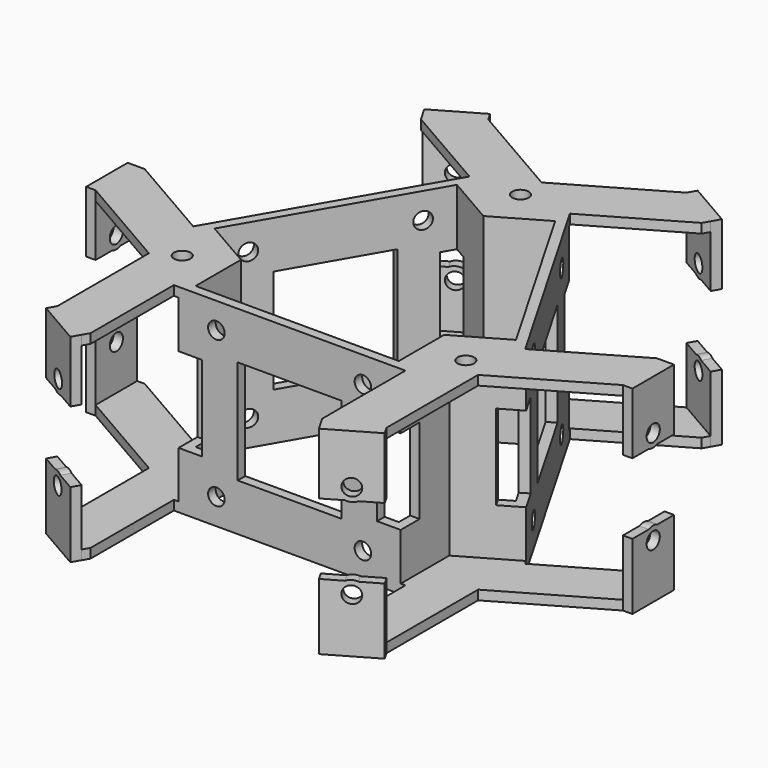
from build123d import *

# Parameters (mm, degrees)
PAD_DEPTH       = 42
SKETCH001_R     = 1.75
SKETCH001_W     = 22
SKETCH001_H     = 22
SKETCH001_W_2   = 5
SKETCH001_H_2   = 18
POCKET_DEPTH    = 5
SKETCH002_R     = 1.75
SKETCH002_W     = 22
SKETCH002_H     = 22
SKETCH002_W_2   = 5
SKETCH002_H_2   = 18
POCKET001_DEPTH = 5
SKETCH003_R     = 1.75
SKETCH003_W     = 22
SKETCH003_H     = 22
SKETCH003_W_2   = 5
SKETCH003_H_2   = 18
POCKET002_DEPTH = 5
SKETCH004_R     = 1.75
PAD001_DEPTH    = 2
PAD002_DEPTH    = 2
SKETCH006_R     = 1.75
PAD003_DEPTH    = 2
SKETCH007_R     = 1.75
PAD004_DEPTH    = 2
SKETCH008_R     = 1.75
PAD005_DEPTH    = 2
SKETCH009_R     = 1.75
PAD006_DEPTH    = 2
SKETCH010_R     = 1.75
PAD007_DEPTH    = 2
SKETCH011_R     = 1.75
PAD008_DEPTH    = 2


with BuildPart() as part:
    # Sketch → Pad (new body)
    with BuildSketch(Plane.XY):
        Polygon((0, 27.1354626519), (-11.124355653, 33.5581123827), (-34.624355653, -7.1450815951), (-23.5, -13.567731326), (-23.5, -26.4130307876), (23.5, -26.4130307876), (23.5, -13.567731326), (34.624355653, -7.1450815951), (11.124355653, 33.5581123827), align=None)
        Polygon((0, 24.8260615752), (-10.3923048454, 30.8260615752), (-31.8923048454, -6.4130307876), (-21.5, -12.4130307876), (-21.5, -24.4130307876), (21.5, -24.4130307876), (21.5, -12.4130307876), (31.8923048454, -6.4130307876), (10.3923048454, 30.8260615752), align=None, mode=Mode.SUBTRACT)
    extrude(amount=PAD_DEPTH)

    # Sketch001 (on Face5 of Pad) → Pocket (cut)
    with BuildSketch(Plane.XZ.offset(26.4130307876)):
        with Locations((-15.5, 5.5)):
            Circle(SKETCH001_R)
        with Locations((-15.5, 36.5)):
            Circle(SKETCH001_R)
        with Locations((15.5, 36.5)):
            Circle(SKETCH001_R)
        with Locations((15.5, 5.5)):
            Circle(SKETCH001_R)
        with Locations((0, 21)):
            Rectangle(SKETCH001_W, SKETCH001_H)
        with Locations((-21, 21)):
            Rectangle(SKETCH001_W_2, SKETCH001_H_2)
        with Locations((21, 21)):
            Rectangle(SKETCH001_W_2, SKETCH001_H_2)
    extrude(amount=-POCKET_DEPTH, mode=Mode.SUBTRACT)

    # Sketch002 (on Face6 of Pocket) → Pocket001 (cut)
    with BuildSketch(Plane(origin=(22.874355653, 13.2065153938, 0), x_dir=(-0.5, 0.8660254038, 0), z_dir=(0.8660254038, 0.5, 0))):
        with Locations((15.5, 5.5)):
            Circle(SKETCH002_R)
        with Locations((15.5, 36.5)):
            Circle(SKETCH002_R)
        with Locations((-15.5, 5.5)):
            Circle(SKETCH002_R)
        with Locations((-15.5, 36.5)):
            Circle(SKETCH002_R)
        with Locations((0, 21)):
            Rectangle(SKETCH002_W, SKETCH002_H)
        with Locations((-21, 21)):
            Rectangle(SKETCH002_W_2, SKETCH002_H_2)
        with Locations((21, 21)):
            Rectangle(SKETCH002_W_2, SKETCH002_H_2)
    extrude(amount=-POCKET001_DEPTH, mode=Mode.SUBTRACT)

    # Sketch003 (on Face3 of Pocket001) → Pocket002 (cut)
    with BuildSketch(Plane(origin=(-22.874355653, 13.2065153938, 0), x_dir=(-0.5, -0.8660254038, 0), z_dir=(-0.8660254038, 0.5, 0))):
        with Locations((-15.5, 36.5)):
            Circle(SKETCH003_R)
        with Locations((15.5, 36.5)):
            Circle(SKETCH003_R)
        with Locations((-15.5, 5.5)):
            Circle(SKETCH003_R)
        with Locations((15.5, 5.5)):
            Circle(SKETCH003_R)
        with Locations((0, 21)):
            Rectangle(SKETCH003_W, SKETCH003_H)
        with Locations((-21, 21)):
            Rectangle(SKETCH003_W_2, SKETCH003_H_2)
        with Locations((21, 21)):
            Rectangle(SKETCH003_W_2, SKETCH003_H_2)
    extrude(amount=-POCKET002_DEPTH, mode=Mode.SUBTRACT)

    # Sketch004 (on Face7 of Pocket002) → Pad001 (join)
    with BuildSketch(Plane.XY.offset(42)):
        Polygon((-23.5, -13.567731326), (-23.5, -26.4130307876), (-24.5, -26.4130307876), (-24.5, -48.4352447504), (-25.2999999836, -49.820885403), (-34.8262794855, -44.3208855074), (-34.8262794855, -20.1069617852), (-55.7961524227, -8), (-55.7961524227, 3), (-54.1961524227, 3), (-35.124355653, -8.0111069989), (-34.624355653, -7.1450815951), align=None)
        with Locations((-30, -17.3205080757)):
            Circle(SKETCH004_R, mode=Mode.SUBTRACT)
        Polygon((23.5, -13.567731326), (23.5, -26.4130307876), (24.5, -26.4130307876), (24.5, -48.4352448944), (25.3000000511, -49.82088552), (34.8262793054, -44.3208851956), (34.8262793054, -20.1069618891), (55.7961524227, -8), (55.7961524227, 3), (54.1961524227, 3), (35.124355653, -8.0111069989), (34.624355653, -7.1450815951), align=None)
        with Locations((30, -17.3205080757)):
            Circle(SKETCH004_R, mode=Mode.SUBTRACT)
        Polygon((0, 27.1354626519), (-11.124355653, 33.5581123827), (-10.624355653, 34.4241377865), (-29.6961572279, 45.4352475597), (-30.4961550236, 46.8208899364), (-20.9698660454, 52.3208734185), (0, 40.2139156123), (20.9698730433, 52.3208855393), (30.4961523994, 46.8208853911), (29.6961523796, 45.4352447605), (10.624355653, 34.4241377865), (11.124355653, 33.5581123827), align=None)
        with Locations((0, 34.6410161514)):
            Circle(SKETCH004_R, mode=Mode.SUBTRACT)
    extrude(amount=-PAD001_DEPTH)

    # Sketch005 (on Face2 of Pad001) → Pad002 (join)
    with BuildSketch(Plane(origin=(0, 0, 0), x_dir=(1, 0, 0), z_dir=(0, 0, -1))):
        Polygon((-24.5, 48.4352447504), (-25.2999999836, 49.820885403), (-34.8262794855, 44.3208855074), (-34.8262794855, 20.1069617852), (-55.7961524227, 8), (-55.7961524227, -3), (-54.1961524227, -3), (-35.124355653, 8.0111069989), (-34.624355653, 7.1450815951), (-23.5, 13.567731326), (-23.5, 26.4130307876), (-24.5, 26.4130307876), align=None)
        Polygon((24.5, 48.4352448944), (25.3000000511, 49.82088552), (34.8262793054, 44.3208851956), (34.8262793054, 20.1069618891), (55.7961524227, 8), (55.7961524227, -3), (54.1961524227, -3), (35.124355653, 8.0111069989), (34.624355653, 7.1450815951), (23.5, 13.567731326), (23.5, 26.4130307876), (24.5, 26.4130307876), align=None)
        Polygon((0, -27.1354626519), (11.124355653, -33.5581123827), (10.624355653, -34.4241377865), (29.6961523796, -45.4352447605), (30.4961523994, -46.8208853911), (20.9698730433, -52.3208855393), (0, -40.2139156123), (-20.9698660454, -52.3208734185), (-30.4961550236, -46.8208899364), (-29.6961572279, -45.4352475597), (-10.624355653, -34.4241377865), (-11.124355653, -33.5581123827), align=None)
    extrude(amount=-PAD002_DEPTH)

    # Sketch006 (on Face127 of Pad002) → Pad003 (join)
    with BuildSketch(Plane(origin=(-27.8980756819, -48.3208857372, 0), x_dir=(0.8660254093, -0.4999999905, 0), z_dir=(-0.4999999905, -0.8660254093, 0))):
        with BuildLine():
            Line((-8.0000006114, 42), (2.9999993886, 42))
            Line((2.9999993886, 42), (2.9999993886, 29))
            Line((2.9999993886, 29), (-1.3543566876, 29))
            ThreePointArc((-3.6456445351, 29), (-2.5000006114, 28.75), (-1.3543566876, 29))
            Line((-3.6456445351, 29), (-8.0000006114, 29))
            Line((-8.0000006114, 29), (-8.0000006114, 42))
        make_face()
        with Locations((-2.5000006114, 31.5)):
            Circle(SKETCH006_R, mode=Mode.SUBTRACT)
        with BuildLine():
            Line((-8.0000006114, 0), (2.9999993886, 0))
            Line((2.9999993886, 0), (2.9999993886, 14.0015625534))
            Line((2.9999993886, 14.0015625534), (-1.6043560763, 14.0015625534))
            ThreePointArc((-1.6043560763, 14.0015625534), (-2.75, 14.2515625534), (-3.8956439237, 14.0015625534))
            Line((-3.8956439237, 14.0015625534), (-8.0000006114, 14.0015625534))
            Line((-8.0000006114, 14.0015625534), (-8.0000006114, 0))
        make_face()
        with Locations((-2.75, 11.5015625534)):
            Circle(SKETCH006_R, mode=Mode.SUBTRACT)
    extrude(amount=PAD003_DEPTH)

    # Sketch007 (on Face137 of Pad003) → Pad004 (join)
    with BuildSketch(Plane(origin=(27.8980778567, -48.3208844816, 0), x_dir=(0.8660253868, 0.5000000295, 0), z_dir=(0.5000000295, -0.8660253868, 0))):
        with BuildLine():
            Line((-3.0000018998, 42), (7.9999981002, 42))
            Line((7.9999981002, 42), (7.9999981002, 29))
            Line((7.9999981002, 29), (3.6456420239, 29))
            ThreePointArc((1.3543541764, 29), (2.4999981002, 28.75), (3.6456420239, 29))
            Line((1.3543541764, 29), (-3.0000018998, 29))
            Line((-3.0000018998, 29), (-3.0000018998, 42))
        make_face()
        with Locations((2.4999981002, 31.5)):
            Circle(SKETCH007_R, mode=Mode.SUBTRACT)
        with BuildLine():
            Line((-3.0000018998, 0), (7.9999981002, 0))
            Line((7.9999981002, 0), (7.9999981002, 14))
            Line((7.9999981002, 14), (3.6456420239, 14))
            ThreePointArc((3.6456420239, 14), (2.4999981002, 14.25), (1.3543541764, 14))
            Line((1.3543541764, 14), (-3.0000018998, 14))
            Line((-3.0000018998, 14), (-3.0000018998, 0))
        make_face()
        with Locations((2.4999981002, 11.5)):
            Circle(SKETCH007_R, mode=Mode.SUBTRACT)
    extrude(amount=PAD004_DEPTH)

    # Sketch008 (on Face140 of Pad004) → Pad005 (join)
    with BuildSketch(Plane.YZ.offset(55.7961524227)):
        with BuildLine():
            Line((-8, 42), (3, 42))
            Line((3, 42), (3, 29))
            Line((3, 29), (-1.3543560763, 29))
            ThreePointArc((-3.6456439237, 29), (-2.5, 28.75), (-1.3543560763, 29))
            Line((-3.6456439237, 29), (-8, 29))
            Line((-8, 29), (-8, 42))
        make_face()
        with Locations((-2.5, 31.5)):
            Circle(SKETCH008_R, mode=Mode.SUBTRACT)
        with BuildLine():
            Line((-8, 0), (3, 0))
            Line((3, 0), (3, 14))
            Line((3, 14), (-1.3543560763, 14))
            ThreePointArc((-1.3543560763, 14), (-2.5, 14.25), (-3.6456439237, 14))
            Line((-3.6456439237, 14), (-8, 14))
            Line((-8, 14), (-8, 0))
        make_face()
        with Locations((-2.5, 11.5)):
            Circle(SKETCH008_R, mode=Mode.SUBTRACT)
    extrude(amount=PAD005_DEPTH)

    # Sketch009 (on Face44 of Pad005) → Pad006 (join)
    with BuildSketch(Plane(origin=(27.8980769631, 48.3208849975, 0), x_dir=(-0.866025396, 0.5000000135, 0), z_dir=(0.5000000135, 0.866025396, 0))):
        with BuildLine():
            Line((-2.999999132, 42), (8.000000868, 42))
            Line((8.000000868, 42), (8.000000868, 29))
            Line((8.000000868, 29), (3.6456447917, 29))
            ThreePointArc((1.3543569443, 29), (2.500000868, 28.75), (3.6456447917, 29))
            Line((1.3543569443, 29), (-2.999999132, 29))
            Line((-2.999999132, 29), (-2.999999132, 42))
        make_face()
        with Locations((2.500000868, 31.5)):
            Circle(SKETCH009_R, mode=Mode.SUBTRACT)
        with BuildLine():
            Line((-2.999999132, 0), (8.000000868, 0))
            Line((8.000000868, 0), (8.000000868, 14))
            Line((8.000000868, 14), (3.6456447917, 14))
            ThreePointArc((3.6456447917, 14), (2.500000868, 14.25), (1.3543569443, 14))
            Line((1.3543569443, 14), (-2.999999132, 14))
            Line((-2.999999132, 14), (-2.999999132, 0))
        make_face()
        with Locations((2.500000868, 11.5)):
            Circle(SKETCH009_R, mode=Mode.SUBTRACT)
    extrude(amount=PAD006_DEPTH)

    # Sketch010 (on Face41 of Pad006) → Pad007 (join)
    with BuildSketch(Plane(origin=(-27.8979924263, 48.3209338046, 0), x_dir=(-0.8660262707, -0.4999984984, 0), z_dir=(-0.4999984984, 0.8660262707, 0))):
        with BuildLine():
            Line((-7.9999032534, 42), (3.0000967466, 42))
            Line((3.0000967466, 42), (3.0000967466, 29))
            Line((3.0000967466, 29), (-1.3542593297, 29))
            ThreePointArc((-3.6455471772, 29), (-2.4999032534, 28.75), (-1.3542593297, 29))
            Line((-3.6455471772, 29), (-7.9999032534, 29))
            Line((-7.9999032534, 29), (-7.9999032534, 42))
        make_face()
        with Locations((-2.4999032534, 31.5)):
            Circle(SKETCH010_R, mode=Mode.SUBTRACT)
        with BuildLine():
            Line((-7.9999032534, 0), (3.0000967466, 0))
            Line((3.0000967466, 0), (3.0000967466, 14))
            Line((3.0000967466, 14), (-1.3542593297, 14))
            ThreePointArc((-1.3542593297, 14), (-2.4999032534, 14.25), (-3.6455471772, 14))
            Line((-3.6455471772, 14), (-7.9999032534, 14))
            Line((-7.9999032534, 14), (-7.9999032534, 0))
        make_face()
        with Locations((-2.4999032534, 11.5)):
            Circle(SKETCH010_R, mode=Mode.SUBTRACT)
    extrude(amount=PAD007_DEPTH)

    # Sketch011 (on Face159 of Pad007) → Pad008 (join)
    with BuildSketch(Plane(origin=(-55.7961524227, 0, 0), x_dir=(0, -1, 0), z_dir=(-1, 0, 0))):
        with BuildLine():
            Line((-3, 42), (8, 42))
            Line((8, 42), (8, 29))
            Line((8, 29), (3.6456439237, 29))
            ThreePointArc((1.3543560763, 29), (2.5, 28.75), (3.6456439237, 29))
            Line((1.3543560763, 29), (-3, 29))
            Line((-3, 29), (-3, 42))
        make_face()
        with Locations((2.5, 31.5)):
            Circle(SKETCH011_R, mode=Mode.SUBTRACT)
        with BuildLine():
            Line((-3, 0), (8, 0))
            Line((8, 0), (8, 14))
            Line((8, 14), (3.6456439237, 14))
            ThreePointArc((3.6456439237, 14), (2.5, 14.25), (1.3543560763, 14))
            Line((1.3543560763, 14), (-3, 14))
            Line((-3, 14), (-3, 0))
        make_face()
        with Locations((2.5, 11.5)):
            Circle(SKETCH011_R, mode=Mode.SUBTRACT)
    extrude(amount=PAD008_DEPTH)


solid = part.part
